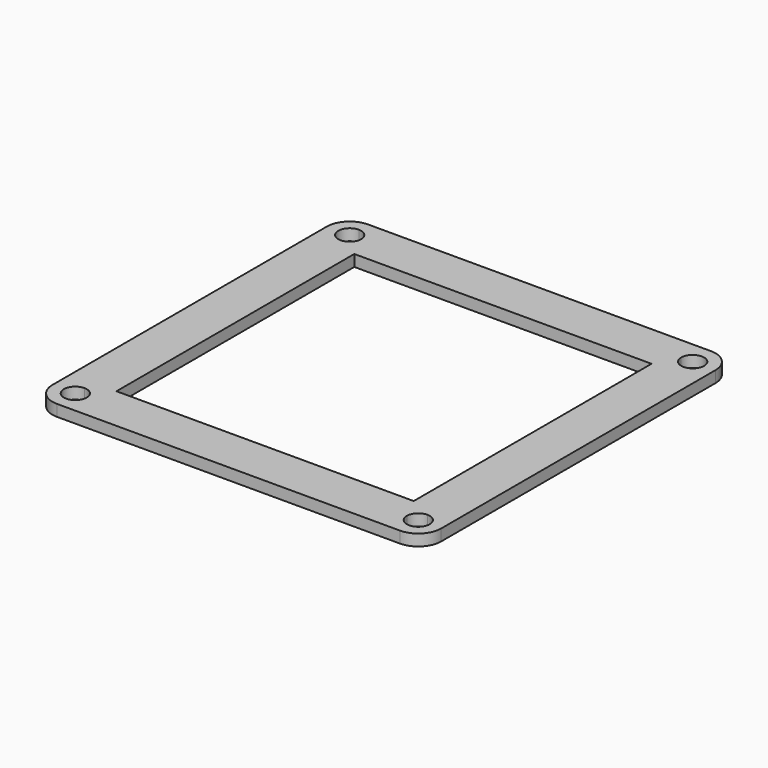
from build123d import *

# Parameters (mm, degrees)
F1_DEPTH = 1.5
F2_R     = 3


with BuildPart() as f1:
    # F0 (on Top) → F1 (new body)
    with BuildSketch(Plane.XY):
        with BuildLine():
            Line((21, -22.5), (19.5, -22.5))
            Line((19.5, -22.5), (-21, -22.5))
            ThreePointArc((-21, -22.5), (-23.56066, -23.56066), (-22.5, -21))
            Line((-22.5, -21), (-22.5, -19.5))
            Line((-22.5, -19.5), (-22.5, 21))
            ThreePointArc((-22.5, 21), (-24, 22.5), (-22.5, 24))
            Line((-22.5, 24), (-22.5, 25.5))
            Line((-22.5, 25.5), (-25.5, 25.5))
            Line((-25.5, 25.5), (-25.5, -25.5))
            Line((-25.5, -25.5), (25.5, -25.5))
            Line((25.5, -25.5), (25.5, 22.5))
            Line((25.5, 22.5), (24, 22.5))
            ThreePointArc((24, 22.5), (23.56066, 21.43934), (22.5, 21))
            Line((22.5, 21), (22.5, 19.5))
            Line((22.5, 19.5), (22.5, -21))
            ThreePointArc((22.5, -21), (23.56066, -21.43934), (24, -22.5))
            ThreePointArc((24, -22.5), (22.5, -24), (21, -22.5))
        make_face()
        with BuildLine():
            Line((-21, 22.5), (-19.5, 22.5))
            Line((-19.5, 22.5), (21, 22.5))
            ThreePointArc((21, 22.5), (22.5, 24), (24, 22.5))
            Line((24, 22.5), (25.5, 22.5))
            Line((25.5, 22.5), (25.5, 25.5))
            Line((25.5, 25.5), (-22.5, 25.5))
            Line((-22.5, 25.5), (-22.5, 24))
            ThreePointArc((-22.5, 24), (-21.43934, 23.56066), (-21, 22.5))
        make_face()
        with BuildLine():
            Line((-21, -22.5), (19.5, -22.5))
            Line((19.5, -22.5), (19.5, -19.5))
            Line((19.5, -19.5), (-19.5, -19.5))
            Line((-19.5, -19.5), (-22.5, -19.5))
            Line((-22.5, -19.5), (-22.5, -21))
            ThreePointArc((-22.5, -21), (-21.43934, -21.43934), (-21, -22.5))
        make_face()
        with BuildLine():
            Line((19.5, -19.5), (19.5, -22.5))
            Line((19.5, -22.5), (21, -22.5))
            ThreePointArc((21, -22.5), (21.43934, -21.43934), (22.5, -21))
            Line((22.5, -21), (22.5, 19.5))
            Line((22.5, 19.5), (19.5, 19.5))
            Line((19.5, 19.5), (19.5, -19.5))
        make_face()
        with BuildLine():
            Line((-19.5, 19.5), (19.5, 19.5))
            Line((19.5, 19.5), (22.5, 19.5))
            Line((22.5, 19.5), (22.5, 21))
            ThreePointArc((22.5, 21), (21.43934, 21.43934), (21, 22.5))
            Line((21, 22.5), (-19.5, 22.5))
            Line((-19.5, 22.5), (-19.5, 19.5))
        make_face()
        with BuildLine():
            Line((-22.5, -19.5), (-19.5, -19.5))
            Line((-19.5, -19.5), (-19.5, 19.5))
            Line((-19.5, 19.5), (-19.5, 22.5))
            Line((-19.5, 22.5), (-21, 22.5))
            ThreePointArc((-21, 22.5), (-21.43934, 21.43934), (-22.5, 21))
            Line((-22.5, 21), (-22.5, -19.5))
        make_face()
    extrude(amount=F1_DEPTH)

    # F2
    f2_edges = [f1.edges().sort_by_distance(p)[0] for p in [
        (-25.5, 25.5, 0.75),
        (25.5, -25.5, 0.75),
        (-25.5, -25.5, 0.75),
        (25.5, 25.5, 0.75),
    ]]
    fillet(f2_edges, radius=F2_R)


solid = f1.part
